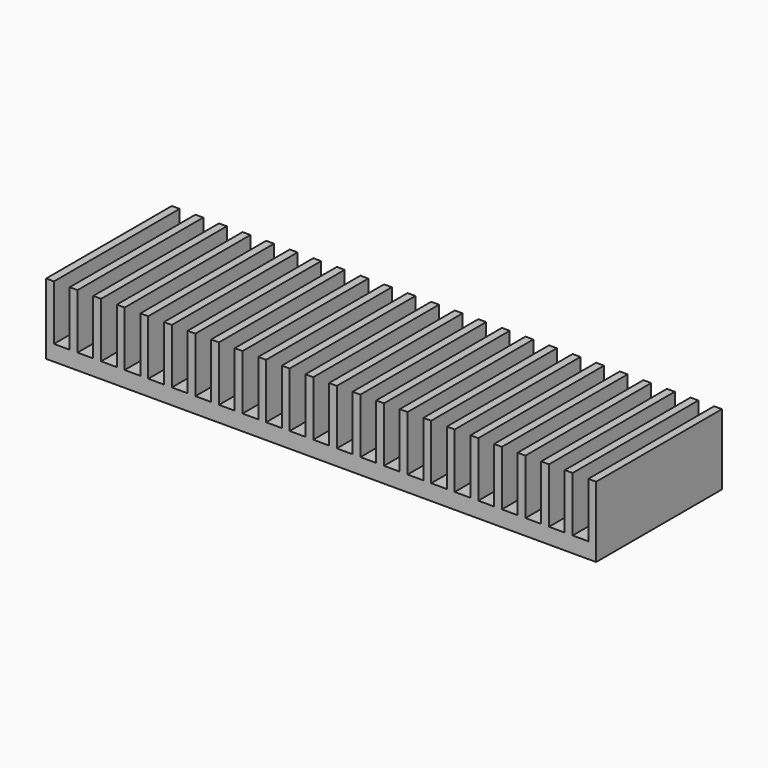
from build123d import *

# Parameters (mm, degrees)
F0_W     = 1
F0_H     = 7
F1_DEPTH = 20


with BuildPart() as f1:
    # F0 (on Front) → F1 (new body)
    with BuildSketch(Plane.XZ):
        with Locations((-37.435483, 5.5)):
            Rectangle(F0_W, F0_H)
        with Locations((31.564517, 5.5)):
            Rectangle(F0_W, F0_H)
        with Locations((-10.435483, 5.5)):
            Rectangle(F0_W, F0_H)
        with Locations((-4.435483, 5.5)):
            Rectangle(F0_W, F0_H)
        with Locations((10.564517, 5.5)):
            Rectangle(F0_W, F0_H)
        with Locations((16.564517, 5.5)):
            Rectangle(F0_W, F0_H)
        with Locations((22.564517, 5.5)):
            Rectangle(F0_W, F0_H)
        with Locations((28.564517, 5.5)):
            Rectangle(F0_W, F0_H)
        with Locations((7.564517, 5.5)):
            Rectangle(F0_W, F0_H)
        with Locations((1.564517, 5.5)):
            Rectangle(F0_W, F0_H)
        with Locations((19.564517, 5.5)):
            Rectangle(F0_W, F0_H)
        with Locations((-16.435483, 5.5)):
            Rectangle(F0_W, F0_H)
        with Locations((4.564517, 5.5)):
            Rectangle(F0_W, F0_H)
        with Locations((-34.435483, 5.5)):
            Rectangle(F0_W, F0_H)
        with Locations((-25.435483, 5.5)):
            Rectangle(F0_W, F0_H)
        with Locations((-31.435483, 5.5)):
            Rectangle(F0_W, F0_H)
        with Locations((-22.435483, 5.5)):
            Rectangle(F0_W, F0_H)
        with Locations((-13.435483, 5.5)):
            Rectangle(F0_W, F0_H)
        with Locations((-1.435483, 5.5)):
            Rectangle(F0_W, F0_H)
        with Locations((13.564517, 5.5)):
            Rectangle(F0_W, F0_H)
        with Locations((-7.435483, 5.5)):
            Rectangle(F0_W, F0_H)
        with Locations((25.564517, 5.5)):
            Rectangle(F0_W, F0_H)
        with Locations((-19.435483, 5.5)):
            Rectangle(F0_W, F0_H)
        with Locations((-28.435483, 5.5)):
            Rectangle(F0_W, F0_H)
        Polygon((-37.935483, 2), (-37.935483, 0), (32.064517, 0), (32.064517, 2), (31.064517, 2), (29.064517, 2), (28.064517, 2), (26.064517, 2), (25.064517, 2), (23.064517, 2), (22.064517, 2), (20.064517, 2), (19.064517, 2), (17.064517, 2), (16.064517, 2), (14.064517, 2), (13.064517, 2), (11.064517, 2), (10.064517, 2), (8.064517, 2), (7.064517, 2), (5.064517, 2), (4.064517, 2), (2.064517, 2), (1.064517, 2), (-0.935483, 2), (-1.935483, 2), (-3.935483, 2), (-4.935483, 2), (-6.935483, 2), (-7.935483, 2), (-9.935483, 2), (-10.935483, 2), (-12.935483, 2), (-13.935483, 2), (-15.935483, 2), (-16.935483, 2), (-18.935483, 2), (-19.935483, 2), (-21.935483, 2), (-22.935483, 2), (-24.935483, 2), (-25.935483, 2), (-27.935483, 2), (-28.935483, 2), (-30.935483, 2), (-31.935483, 2), (-33.935483, 2), (-34.935483, 2), (-36.935483, 2), align=None)
    extrude(amount=F1_DEPTH)


solid = f1.part
